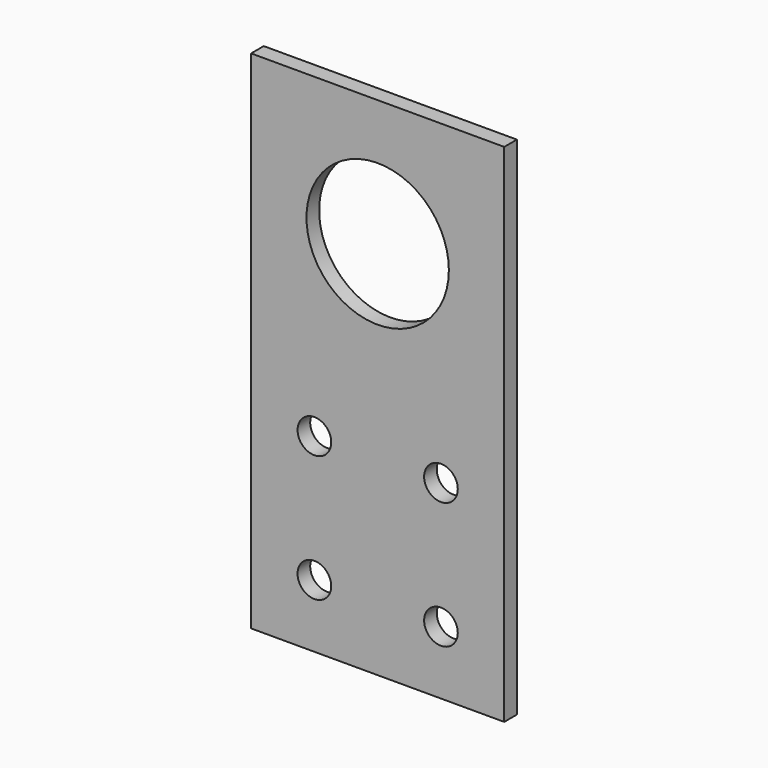
from build123d import *

# Parameters (mm, degrees)
F0_W     = 50.8
F0_H     = 101.6
F0_R     = 3.3782
F0_R_2   = 14.2875
F1_DEPTH = 3.175


with BuildPart() as f1:
    # F0 (on Front) → F1 (new body)
    with BuildSketch(Plane.XZ):
        with Locations((22.88056, 44.470361)):
            Rectangle(F0_W, F0_H)
        with Locations((10.18056, 6.370361)):
            Circle(F0_R, mode=Mode.SUBTRACT)
        with Locations((10.18056, 31.770361)):
            Circle(F0_R, mode=Mode.SUBTRACT)
        with Locations((35.58056, 6.370361)):
            Circle(F0_R, mode=Mode.SUBTRACT)
        with Locations((35.58056, 31.770361)):
            Circle(F0_R, mode=Mode.SUBTRACT)
        with Locations((22.88056, 69.870361)):
            Circle(F0_R_2, mode=Mode.SUBTRACT)
    extrude(amount=F1_DEPTH)


solid = f1.part
